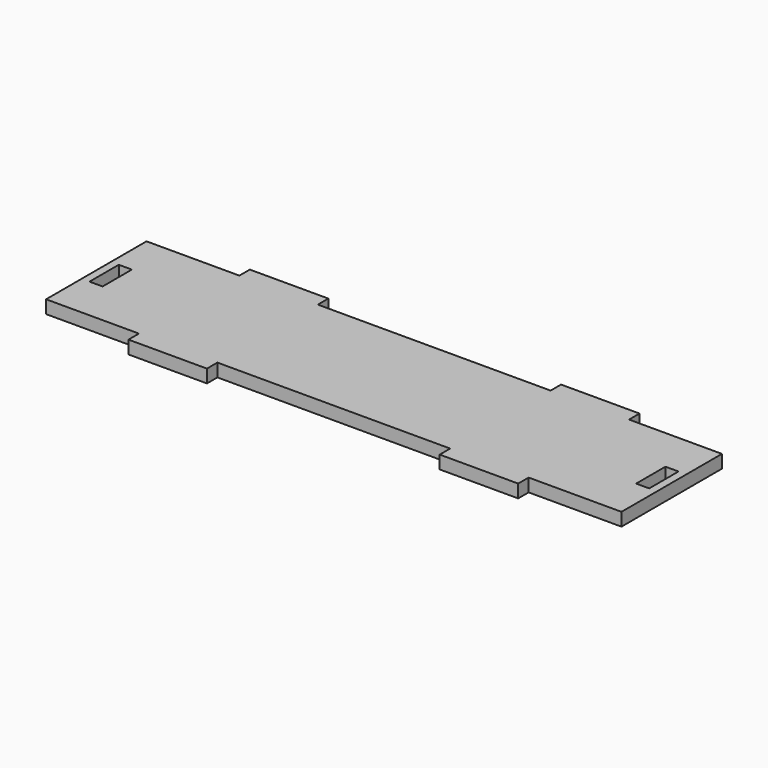
from build123d import *

# Parameters (mm, degrees)
F0_W     = 5
F0_H     = 14
F1_DEPTH = 5


with BuildPart() as f1:
    # F0 (on Top) → F1 (new body)
    with BuildSketch(Plane.XY):
        Polygon((-74.5, 24), (-110, 24), (-110, -24), (-74.5, -24), (-74.5, -29), (-44.5, -29), (-44.5, -24), (44.5, -24), (44.5, -29), (74.5, -29), (74.5, -24), (110, -24), (110, 24), (74.5, 24), (74.5, 29), (44.5, 29), (44.5, 24), (-44.5, 24), (-44.5, 29), (-74.5, 29), align=None)
        with Locations((-104.5, 0)):
            Rectangle(F0_W, F0_H, mode=Mode.SUBTRACT)
        with Locations((104.5, 0)):
            Rectangle(F0_W, F0_H, mode=Mode.SUBTRACT)
    extrude(amount=F1_DEPTH)


solid = f1.part
